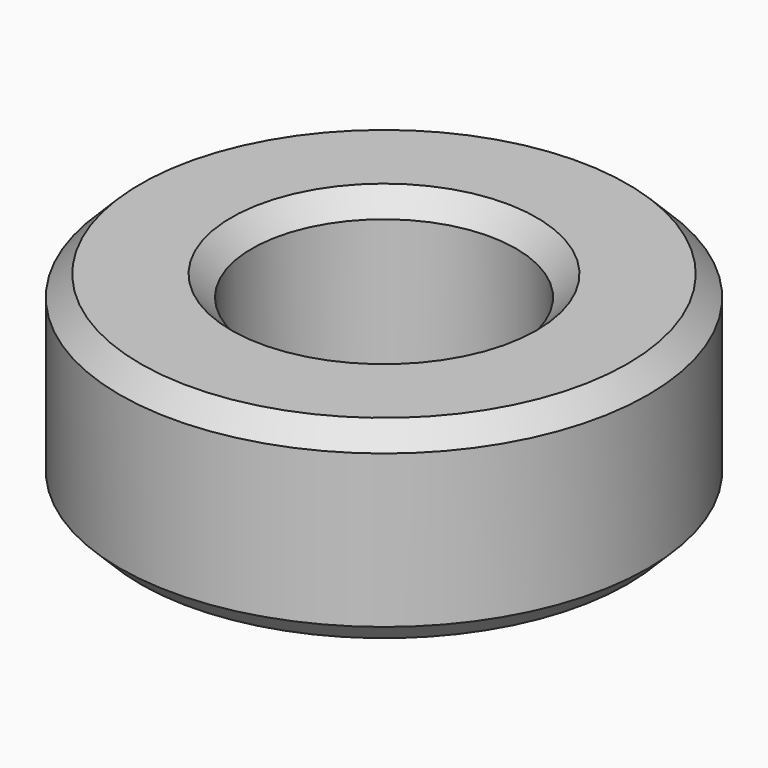
from build123d import *

# Parameters (mm, degrees)
F0_R     = 6.4
F1_DEPTH = 4.7
F2_R     = 3.2
F3_DEPTH = 25
F4_SIZE  = 0.5
F5_SIZE  = 0.5


with BuildPart() as f1:
    # F0 (on Top) → F1 (new body)
    with BuildSketch(Plane.XY):
        Circle(F0_R)
    extrude(amount=F1_DEPTH)

    # F2 (on face) → F3 (cut)
    with BuildSketch(Plane.XY.offset(4.7)):
        Circle(F2_R)
    extrude(amount=-F3_DEPTH, mode=Mode.SUBTRACT)

    # F4
    f4_edges = [f1.edges().sort_by_distance(p)[0] for p in [
        (-6.4, 0, 4.7),
        (-3.2, 0, 4.7),
    ]]
    chamfer(f4_edges, length=F4_SIZE)

    # F5
    f5_edges = [f1.edges().sort_by_distance(p)[0] for p in [
        (-6.4, 0, 0),
    ]]
    chamfer(f5_edges, length=F5_SIZE)


solid = f1.part
